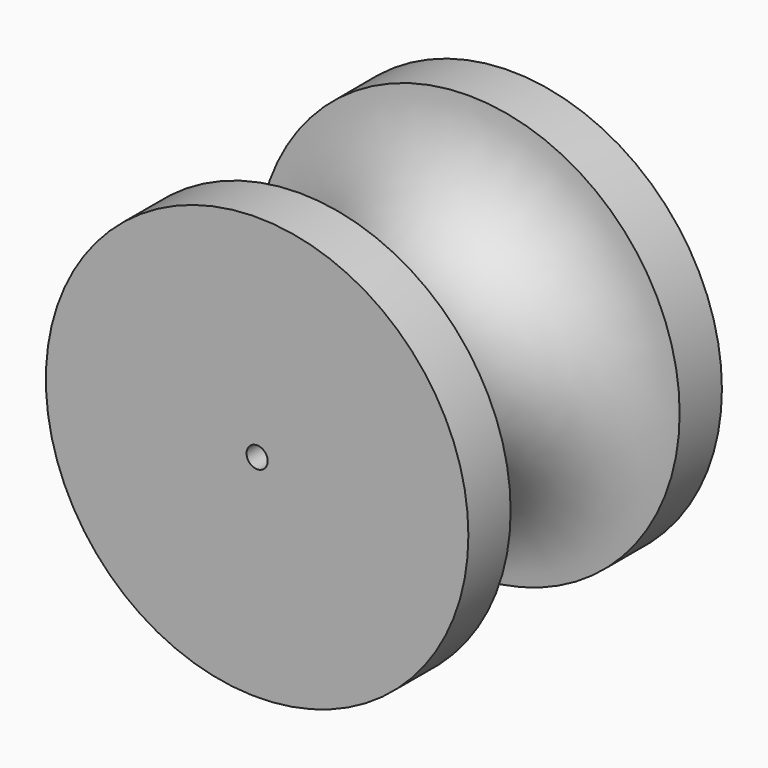
from build123d import *

# Parameters (mm, degrees)
F0_R     = 10
F1_DEPTH = 7.5
F5_R     = 0.5
F6_DEPTH = 15.001


with BuildPart() as f1:
    # F0 (on Front) → F1 (new body, symmetric)
    with BuildSketch(Plane.XZ):
        Circle(F0_R)
    extrude(amount=F1_DEPTH, both=True)

    # F2 (on Right) → F4 (revolve, cut)
    with BuildSketch(Plane.YZ):
        with BuildLine():
            Line((5, 10), (-5, 10))
            ThreePointArc((-5, 10), (0, 5), (5, 10))
        make_face()
    revolve(axis=Axis((0, -5.833439, 0), (0, 1, 0)), mode=Mode.SUBTRACT)

    # F5 (on face) → F6 (cut, through all)
    with BuildSketch(Plane.XZ.offset(7.5)):
        Circle(F5_R)
    extrude(amount=-F6_DEPTH, mode=Mode.SUBTRACT)


solid = f1.part
